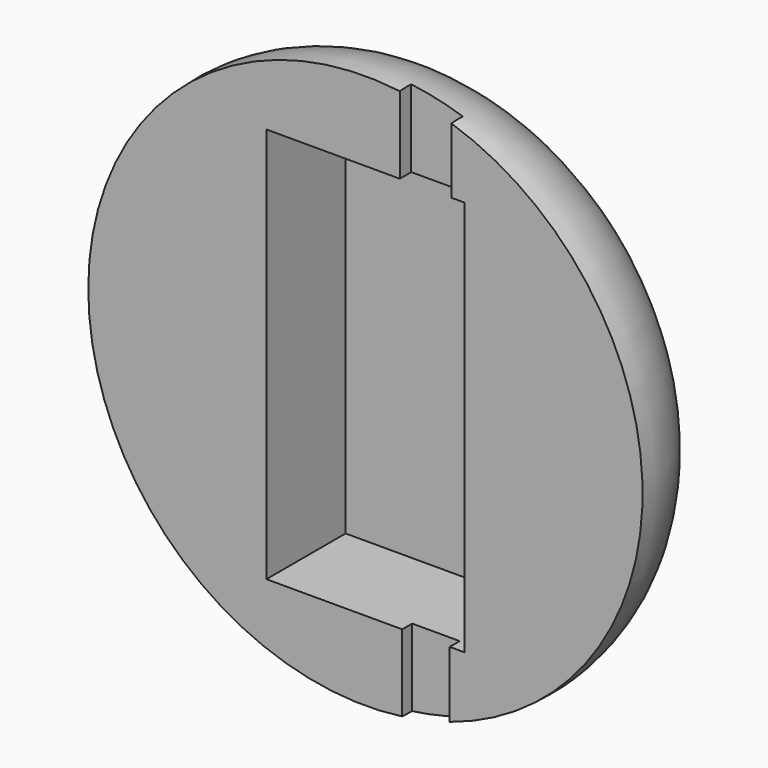
from build123d import *

# Parameters (mm, degrees)
SKETCH001_W     = 30
SKETCH001_H     = 60
POCKET_DEPTH    = 15
SKETCH002_W     = 7.828685
SKETCH002_H     = 2.912844
POCKET001_DEPTH = 12.062428
SKETCH003_W     = 7.191467
SKETCH003_H     = 2.548873
POCKET002_DEPTH = 12.062428


with BuildPart() as part:
    # Sketch → Revolution (revolve)
    with BuildSketch(Plane.XY):
        with BuildLine():
            ThreePointArc((-26.469681, 17.367976), (-37.995377, 12.046633), (-42, 0))
            Line((-42, 0), (0, 0))
            Line((0, 18), (0, 0))
            Line((-26.469681, 17.367976), (0, 18))
        make_face()
    revolve(axis=Axis((0, 0, 0), (0, 1, 0)))

    # Sketch001 → Pocket (cut)
    with BuildSketch(Plane.XZ):
        Rectangle(SKETCH001_W, SKETCH001_H)
    extrude(amount=-POCKET_DEPTH, mode=Mode.SUBTRACT)

    # Sketch002 → Pocket001 (cut, through all)
    with BuildSketch(Plane(origin=(0, 0, 30), x_dir=(1, 0, 0), z_dir=(0, 0, -1))):
        with Locations((9.123454, -0.709289)):
            Rectangle(SKETCH002_W, SKETCH002_H)
    extrude(amount=-POCKET001_DEPTH, mode=Mode.SUBTRACT)

    # Sketch003 → Pocket002 (cut, through all)
    with BuildSketch(Plane.XY.offset(-30)):
        with Locations((9.168967, 0.61833)):
            Rectangle(SKETCH003_W, SKETCH003_H)
    extrude(amount=-POCKET002_DEPTH, mode=Mode.SUBTRACT)


solid = part.part
